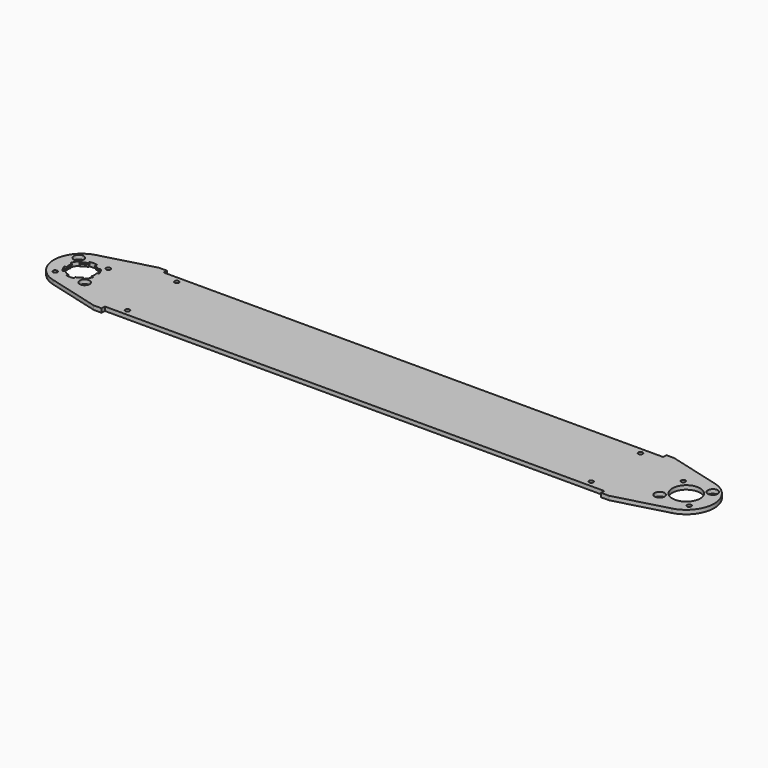
from build123d import *

# Parameters (mm, degrees)
F0_R     = 1.7272
F0_R_2   = 3.96875
F0_R_3   = 10.31875
F0_R_4   = 11.1125
F1_DEPTH = 3.175
F3_DEPTH = 3.175
F4_COUNT = 6
F4_ANGLE = 300
F5_R     = 11.1125
F6_DEPTH = 1.94945


with BuildPart() as f1:
    # F0 (on Top) → F1 (new body)
    with BuildSketch(Plane.XY):
        with BuildLine():
            Line((-447.0158774883, 32.54375), (-488.3522532774, 21.4677014893))
            ThreePointArc((-488.3522532774, 21.4677014893), (-504.825, 0), (-488.3522532774, -21.4677014893))
            Line((-488.3522532774, -21.4677014893), (-447.0158774883, -32.54375))
            Line((-447.0158774883, -32.54375), (-440.6658774883, -32.54375))
            Line((-440.6658774883, -32.54375), (-440.6658774883, -29.36875))
            Line((-440.6658774883, -29.36875), (-41.9341225117, -29.36875))
            Line((-41.9341225117, -29.36875), (-41.9341225117, -32.54375))
            Line((-41.9341225117, -32.54375), (-35.5841225117, -32.54375))
            Line((-35.5841225117, -32.54375), (5.7522532774, -21.4677014893))
            ThreePointArc((5.7522532774, -21.4677014893), (22.225, 0), (5.7522532774, 21.4677014893))
            Line((5.7522532774, 21.4677014893), (-35.5841225117, 32.54375))
            Line((-35.5841225117, 32.54375), (-41.9341225117, 32.54375))
            Line((-41.9341225117, 32.54375), (-41.9341225117, 29.36875))
            Line((-41.9341225117, 29.36875), (-440.6658774883, 29.36875))
            Line((-440.6658774883, 29.36875), (-440.6658774883, 32.54375))
            Line((-440.6658774883, 32.54375), (-447.0158774883, 32.54375))
        make_face()
        with Locations((-426.3783774883, -24.60625)):
            Circle(F0_R, mode=Mode.SUBTRACT)
        with Locations((-494.3865861589, -11.7865861589)):
            Circle(F0_R, mode=Mode.SUBTRACT)
        with Locations((-470.8134138411, -11.7865861589)):
            Circle(F0_R_2, mode=Mode.SUBTRACT)
        with Locations((-56.2216225117, -24.60625)):
            Circle(F0_R, mode=Mode.SUBTRACT)
        with Locations((-11.7865861589, -11.7865861589)):
            Circle(F0_R_2, mode=Mode.SUBTRACT)
        with Locations((11.7865861589, -11.7865861589)):
            Circle(F0_R, mode=Mode.SUBTRACT)
        with Locations((-482.6, 0)):
            Circle(F0_R_3, mode=Mode.SUBTRACT)
        with Locations((-494.3865861589, 11.7865861589)):
            Circle(F0_R_2, mode=Mode.SUBTRACT)
        with Locations((-470.8134138411, 11.7865861589)):
            Circle(F0_R, mode=Mode.SUBTRACT)
        with Locations((-426.3783774883, 24.60625)):
            Circle(F0_R, mode=Mode.SUBTRACT)
        Circle(F0_R_4, mode=Mode.SUBTRACT)
        with Locations((-11.7865861589, 11.7865861589)):
            Circle(F0_R, mode=Mode.SUBTRACT)
        with Locations((11.7865861589, 11.7865861589)):
            Circle(F0_R_2, mode=Mode.SUBTRACT)
        with Locations((-56.2216225117, 24.60625)):
            Circle(F0_R, mode=Mode.SUBTRACT)
    extrude(amount=F1_DEPTH)

    # F2 (on face) → F3 (cut, through all)
    with BuildSketch(Plane(origin=(0, 0, 0), x_dir=(1, 0, 0), z_dir=(0, 0, -1))):
        with BuildLine():
            ThreePointArc((-489.8964580984, -7.2964580984), (-491.5362996353, -5.159375), (-492.56714712, -2.6706890217))
            Line((-492.56714712, -2.6706890217), (-494.1005543693, -3.0815642558))
            ThreePointArc((-494.1005543693, -3.0815642558), (-492.9111149638, -5.953125), (-491.0189901135, -8.4189901135))
            Line((-491.0189901135, -8.4189901135), (-489.8964580984, -7.2964580984))
        make_face()
    f3 = extrude(amount=-F3_DEPTH, mode=Mode.SUBTRACT)

    # F4: F3 ×6 about axis
    f4_axis = Axis((-482.6, 0, 0), (0, 0, -1))
    for i in range(1, F4_COUNT):
        add(f3.rotate(f4_axis, i * F4_ANGLE / (F4_COUNT - 1)), mode=Mode.SUBTRACT)

    # F5 (on face) → F6 (cut)
    with BuildSketch(Plane(origin=(0, 0, 0), x_dir=(1, 0, 0), z_dir=(0, 0, -1))):
        with Locations((-482.6, 0)):
            Circle(F5_R)
    extrude(amount=-F6_DEPTH, mode=Mode.SUBTRACT)


solid = f1.part
